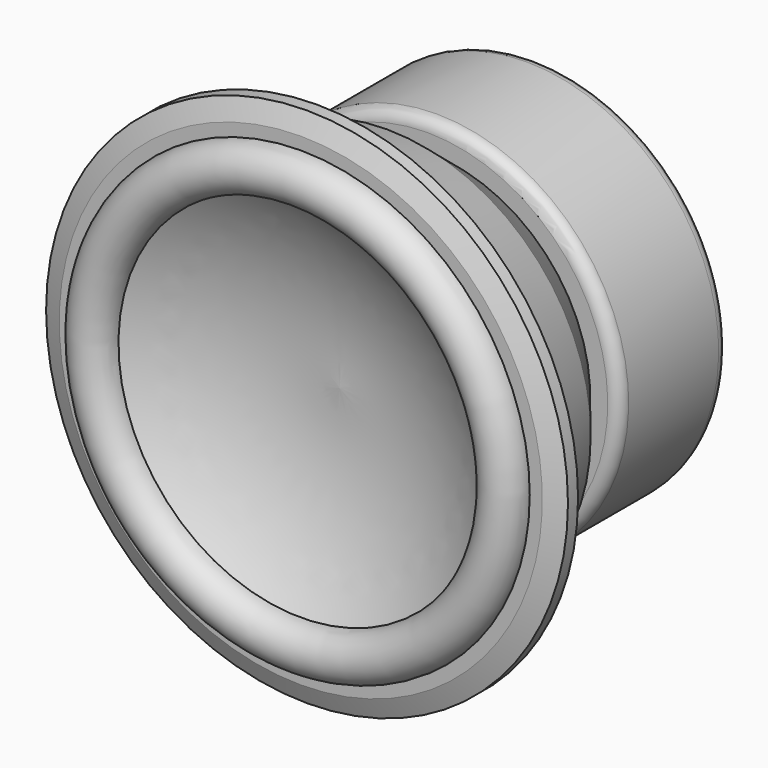
from build123d import *

# Parameters (mm, degrees)
F2_SIZE2 = 4
F2_SIZE  = 10
F3_R     = 6


with BuildPart() as f1:
    # F0 (on Right) → F1 (revolve)
    with BuildSketch(Plane.YZ):
        with BuildLine():
            ThreePointArc((-10.5, 94), (9.8308119905, 49.0826627634), (14.5, 0))
            Line((14.5, 0), (141, 0))
            Line((141, 0), (141, 99))
            Line((141, 99), (71, 99))
            Line((71, 99), (71, 84))
            Line((71, 84), (45, 105))
            Line((45, 105), (0, 118))
            Line((0, 118), (0, 134.5))
            Line((0, 134.5), (-10.5, 134.5))
            Line((-10.5, 134.5), (-10.5, 118))
            ThreePointArc((-10.5, 118), (-22.5, 106), (-10.5, 94))
        make_face()
    revolve(axis=Axis((0, -46.0935165882, 0), (0, 1, 0)))

    # F2
    f2_edges = [f1.edges().sort_by_distance(p)[0] for p in [
        (0, -10.5, -134.5),
    ]]
    f2_side = f1.faces().sort_by_distance((0, -10.5, -130.695766))[0]
    chamfer(f2_edges, length=F2_SIZE, length2=F2_SIZE2, reference=f2_side)

    # F3
    f3_edges = [f1.edges().sort_by_distance(p)[0] for p in [
        (0, 141, -99),
        (0, 71, -99),
        (0, 106, 99),
    ]]
    fillet(f3_edges, radius=F3_R)


solid = f1.part
